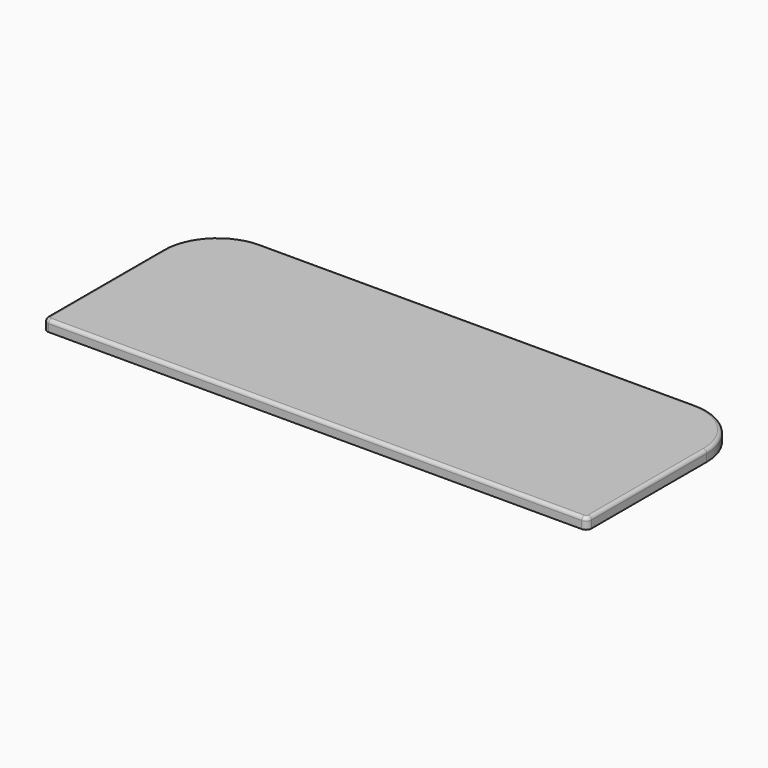
from build123d import *

# Parameters (mm, degrees)
F0_W     = 800
F0_H     = 300
F1_DEPTH = 16
F2_R     = 80
F3_R     = 80
F4_R     = 8
F5_R     = 5


with BuildPart() as f1:
    # F0 (on Top) → F1 (new body)
    with BuildSketch(Plane.XY):
        with Locations((400, 150)):
            Rectangle(F0_W, F0_H)
    extrude(amount=-F1_DEPTH)

    # F2
    f2_edges = [f1.edges().sort_by_distance(p)[0] for p in [
        (0, 300, -8),
    ]]
    fillet(f2_edges, radius=F2_R)

    # F3
    f3_edges = [f1.edges().sort_by_distance(p)[0] for p in [
        (800, 300, -8),
    ]]
    fillet(f3_edges, radius=F3_R)

    # F4
    f4_edges = [f1.edges().sort_by_distance(p)[0] for p in [
        (800, 0, -8),
        (0, 0, -8),
    ]]
    fillet(f4_edges, radius=F4_R)

    # F5
    f5_edges = [f1.edges().sort_by_distance(p)[0] for p in [
        (400, 300, 0),
    ]]
    fillet(f5_edges, radius=F5_R)


solid = f1.part
